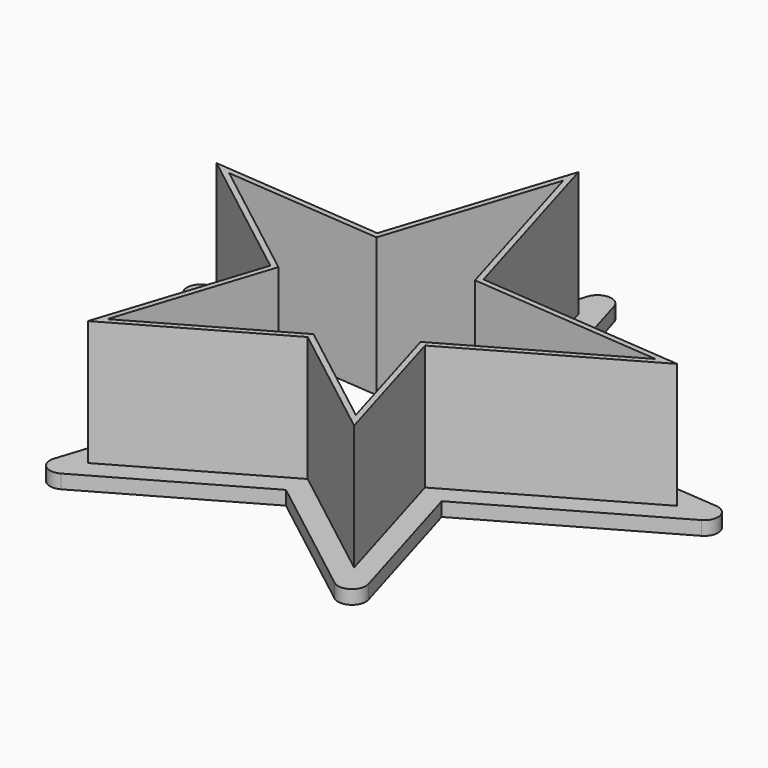
from build123d import *

# Parameters (mm, degrees)
F1_DEPTH = 25.4
F2_DEPTH = 2.54


with BuildPart() as f1:
    # F0 (on Top) → F1 (new body)
    with BuildSketch(Plane.XY):
        Polygon((0.34709, 44.238659), (-10.282353, 11.524596), (-41.738984, 14.106456), (-15.933683, -5.868411), (-25.568001, -35.51979), (2.027153, -19.771187), (24.324346, -37.030565), (16.752772, -11.367249), (48.421839, 6.706344), (10.502188, 9.818668), align=None)
        Polygon((-9.564442, 10.446256), (0.300305, 40.806824), (9.724831, 8.863055), (45.068132, 5.962189), (15.550736, -10.883441), (22.460278, -34.302848), (2.112672, -18.552568), (-23.789904, -33.335215), (-14.746518, -5.502534), (-38.409092, 12.813733), align=None, mode=Mode.SUBTRACT)
    extrude(amount=F1_DEPTH)

    # F0 (on Top) → F2 (join)
    with BuildSketch(Plane.XY):
        with BuildLine():
            Line((29.090617, -39.721459), (21.260413, -13.181531))
            Line((21.260413, -13.181531), (53.872965, 5.430511))
            ThreePointArc((53.872965, 5.430511), (55.09367, 8.186757), (52.821757, 10.168026))
            Line((52.821757, 10.168026), (13.417279, 13.40222))
            Line((13.417279, 13.40222), (2.841755, 49.247218))
            ThreePointArc((2.841755, 49.247218), (0.440196, 51.068223), (-2.010111, 49.313362))
            Line((-2.010111, 49.313362), (-12.974523, 15.568374))
            Line((-12.974523, 15.568374), (-45.693581, 18.25385))
            ThreePointArc((-45.693581, 18.25385), (-48.269186, 16.641595), (-47.45611, 13.713795))
            Line((-47.45611, 13.713795), (-20.385559, -7.240452))
            Line((-20.385559, -7.240452), (-30.206309, -37.465611))
            ThreePointArc((-30.206309, -37.465611), (-29.39403, -40.220462), (-26.531641, -40.456542))
            Line((-26.531641, -40.456542), (1.706455, -24.34101))
            Line((1.706455, -24.34101), (25.099682, -42.448785))
            ThreePointArc((25.099682, -42.448785), (28.087545, -42.53731), (29.090617, -39.721459))
        make_face()
        Polygon((-41.738984, 14.106456), (-10.282353, 11.524596), (0.34709, 44.238659), (10.502188, 9.818668), (48.421839, 6.706344), (16.752772, -11.367249), (24.324346, -37.030565), (2.027153, -19.771187), (-25.568001, -35.51979), (-15.933683, -5.868411), align=None, mode=Mode.SUBTRACT)
    extrude(amount=F2_DEPTH)


solid = f1.part
